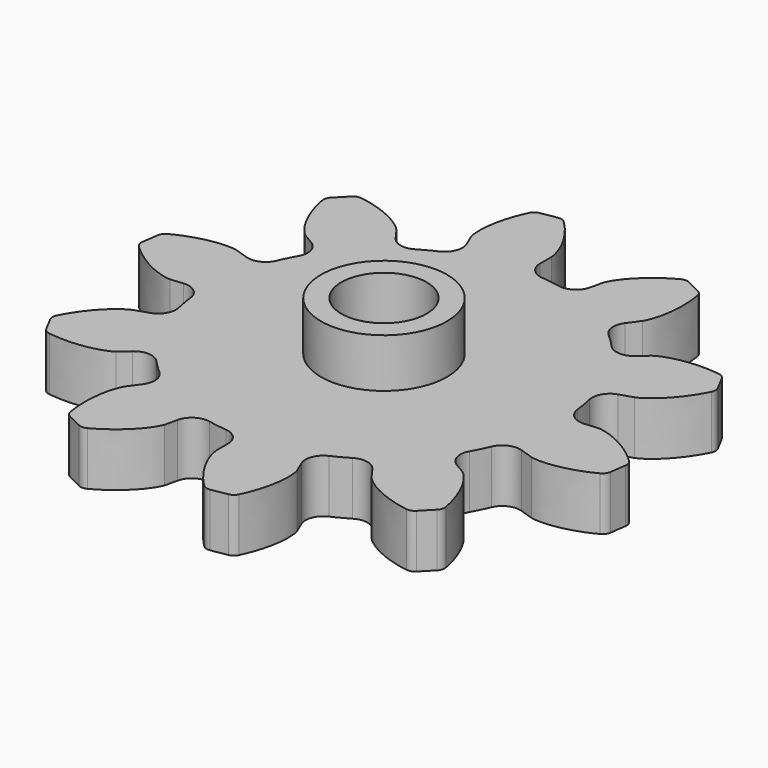
from build123d import *

# Parameters (mm, degrees)
F1_DEPTH = 6
F2_R     = 2
F3_R     = 1
F5_COUNT = 10
F5_ANGLE = 324
F6_SCALE = 0.6
F7_R     = 1.5
F8_DEPTH = 3.6010001
F7_R_2   = 4.25
F7_R_3   = 2.875
F9_DEPTH = 3.3


with BuildPart() as f1:
    # F0 (on Top) → F1 (new body)
    with BuildSketch(Plane.XY):
        with BuildLine():
            ThreePointArc((6.5408699301, -18.9001857281), (16.291368859, -11.6013490896), (20, 0))
            ThreePointArc((20, 0), (-14.1421356237, 14.1421356237), (0, -20))
            ThreePointArc((0, -20), (3.3163447829, -19.7231300072), (6.5408699301, -18.9001857281))
        make_face()
        with BuildLine():
            ThreePointArc((6.5408699301, -18.9001857281), (3.3163447829, -19.7231300072), (0, -20))
            Line((0, -20), (0, -23.4923155196))
            add(Edge.make_bspline(
                [(0, -23.4923155196), (0.0078324547, -23.5965051604), (0.0292284766, -23.881121404), (0.3149411242, -24.9751887694), (1.0750092397, -26.5708307853), (2.2415541735, -28.284587015), (3.2962140412, -29.3628665669), (3.7156411402, -29.769010916)],
                knots=[0, 0, 0, 0, 0.0942339704, 0.2574202051, 0.4680894438, 0.717355578, 0.8697974396, 0.8697974396, 0.8697974396, 0.8697974396], degree=3))
            Line((3.7156411402, -29.769010916), (6.5408699301, -29.2782687425))
            add(Edge.make_bspline(
                [(7.9222031019, -22.1162290295), (7.9499648239, -22.216956957), (8.0258018935, -22.4921167919), (8.1257723508, -23.6184475714), (7.9483168594, -25.3769374155), (7.4280254476, -27.3836970782), (6.7987665072, -28.754473287), (6.5408699301, -29.2782687425)],
                knots=[0, 0, 0, 0, 0.0942339704, 0.2574202051, 0.4680894438, 0.717355578, 0.8697974396, 0.8697974396, 0.8697974396, 0.8697974396], degree=3))
            Line((7.9222031019, -22.1162290295), (6.5408699301, -18.9001857281))
        make_face()
    extrude(amount=F1_DEPTH)

    # F2
    f2_edges = [f1.edges().sort_by_distance(p)[0] for p in [
        (6.54087, -18.900186, 3),
        (0, -20, 3),
    ]]
    fillet(f2_edges, radius=F2_R)

    # F3
    f3_edges = [f1.edges().sort_by_distance(p)[0] for p in [
        (6.54087, -29.278269, 3),
        (3.715641, -29.769011, 3),
    ]]
    fillet(f3_edges, radius=F3_R)

    # F5: F1 ×10 about axis
    f5_axis = Axis((0, 0, 18.8957117498), (0, 0, 1))


with BuildPart() as f1_1:
    add(f1.part)
    for i in range(1, F5_COUNT):
        add(f1.part.rotate(f5_axis, i * F5_ANGLE / (F5_COUNT - 1)))


with BuildPart() as f1_2:
    # F6: moved
    add(f1_1.part.scale(F6_SCALE))

    # F7 (on face) → F8 (cut, through all)
    with BuildSketch(Plane.XY.offset(3.6)):
        Circle(F7_R)
    extrude(amount=-F8_DEPTH, mode=Mode.SUBTRACT)

    # F7 (on face) → F9 (join)
    with BuildSketch(Plane.XY.offset(3.6)):
        Circle(F7_R_2)
        Circle(F7_R_3, mode=Mode.SUBTRACT)
    extrude(amount=F9_DEPTH)


solid = f1_2.part
